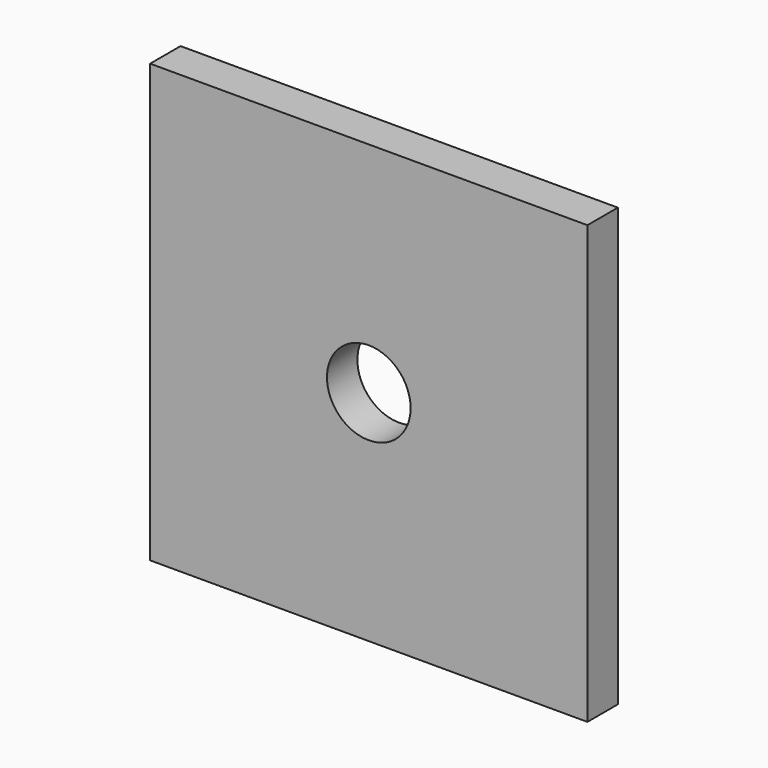
from build123d import *

# Parameters (mm, degrees)
F0_W     = 73.025
F0_H     = 73.025
F0_R     = 6.985
F1_DEPTH = 6.35


with BuildPart() as f1:
    # F0 (on Front) → F1 (new body)
    with BuildSketch(Plane.XZ):
        Rectangle(F0_W, F0_H)
        Circle(F0_R, mode=Mode.SUBTRACT)
    extrude(amount=-F1_DEPTH)


solid = f1.part
